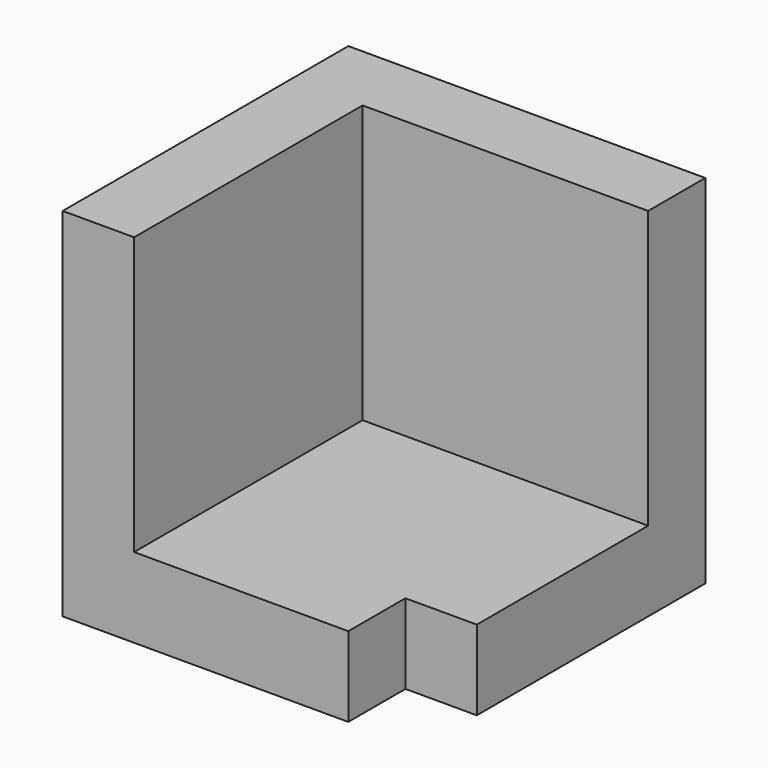
from build123d import *

# Parameters (mm, degrees)
F0_W     = 63.5
F0_H     = 63.5
F1_DEPTH = 63.5
F2_W     = 50.8
F2_H     = 50.8
F3_DEPTH = 49.293023
F4_W     = 12.7
F4_H     = 12.7
F5_DEPTH = 25.4


with BuildPart() as f1:
    # F0 (on Front) → F1 (new body)
    with BuildSketch(Plane.XZ):
        with Locations((31.75, 31.75)):
            Rectangle(F0_W, F0_H)
    extrude(amount=F1_DEPTH)

    # F2 (on face) → F3 (cut)
    with BuildSketch(Plane.XY.offset(63.5)):
        with Locations((38.1, -38.1)):
            Rectangle(F2_W, F2_H)
    extrude(amount=-F3_DEPTH, mode=Mode.SUBTRACT)

    # F4 (on face) → F5 (cut)
    with BuildSketch(Plane.XY.offset(14.206977)):
        with Locations((57.15, -57.15)):
            Rectangle(F4_W, F4_H)
        with Locations((57.15, -57.15)):
            Rectangle(F4_W, F4_H)
    extrude(amount=-F5_DEPTH, mode=Mode.SUBTRACT)


solid = f1.part
